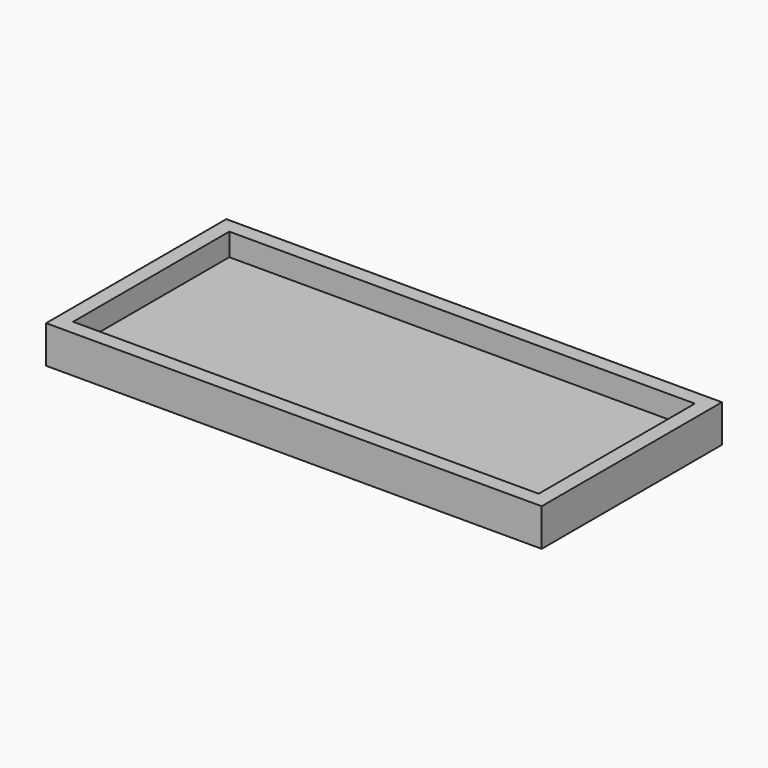
from build123d import *

# Parameters (mm, degrees)
F1_DEPTH = 5
F2_T     = -2


with BuildPart() as f1:
    # F0 (on Top) → F1 (new body)
    with BuildSketch(Plane.XY):
        Polygon((0, 15), (-33, 15), (-33, 0), (-33, -15), (0, -15), (33, -15), (33, 0), (33, 15), align=None)
    extrude(amount=F1_DEPTH)

    # F2
    f2_openings = [f1.faces().sort_by_distance(p)[0] for p in [
        (0, 0, 5),
    ]]
    offset(amount=F2_T, openings=f2_openings)


solid = f1.part
